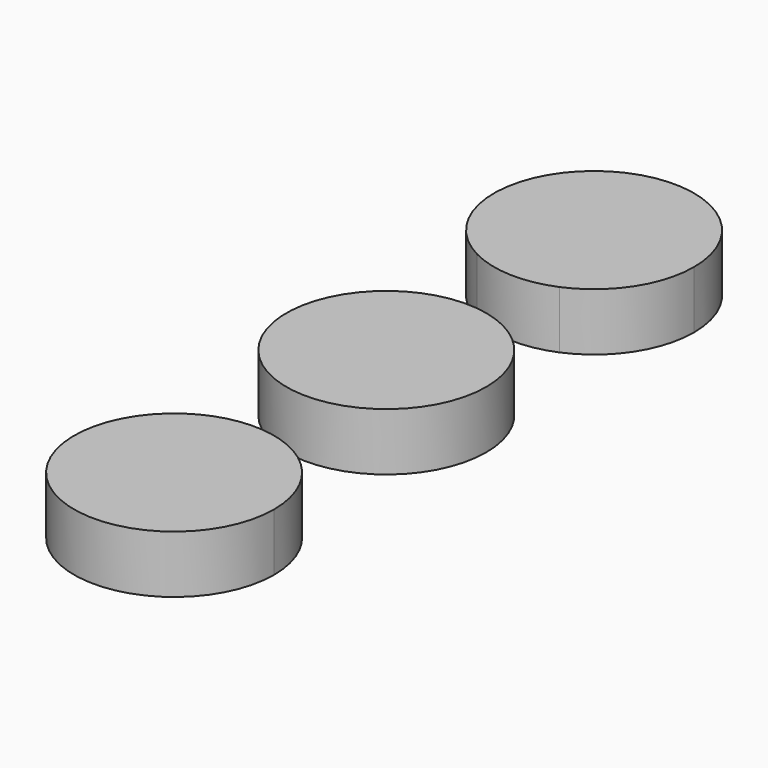
from build123d import *

# Parameters (mm, degrees)
F0_R     = 11.0236
F2_DEPTH = 6.35


with BuildPart() as f2:
    # F0 (on Top) + F1 (on Top) → F2 (new body)
    with BuildSketch(Plane.XY):
        Circle(F0_R)
    with BuildSketch(Plane.XY):
        with BuildLine():
            ThreePointArc((4.305905, 18.482418), (9.192017, 22.545324), (11.0236, 28.630272))
            ThreePointArc((11.0236, 28.630272), (-5.739722, 38.041719), (-5.04653, 18.829644))
            ThreePointArc((-5.04653, 18.829644), (-0.40899, 17.614261), (4.305905, 18.482418))
        make_face()
        with BuildLine():
            ThreePointArc((-5.04653, -19.448678), (-5.739722, -38.660752), (11.0236, -29.249305))
            ThreePointArc((11.0236, -29.249305), (9.192017, -23.164357), (4.305905, -19.101451))
            ThreePointArc((4.305905, -19.101451), (-0.40899, -18.233295), (-5.04653, -19.448678))
        make_face()
    extrude(amount=F2_DEPTH)


solid = f2.part
